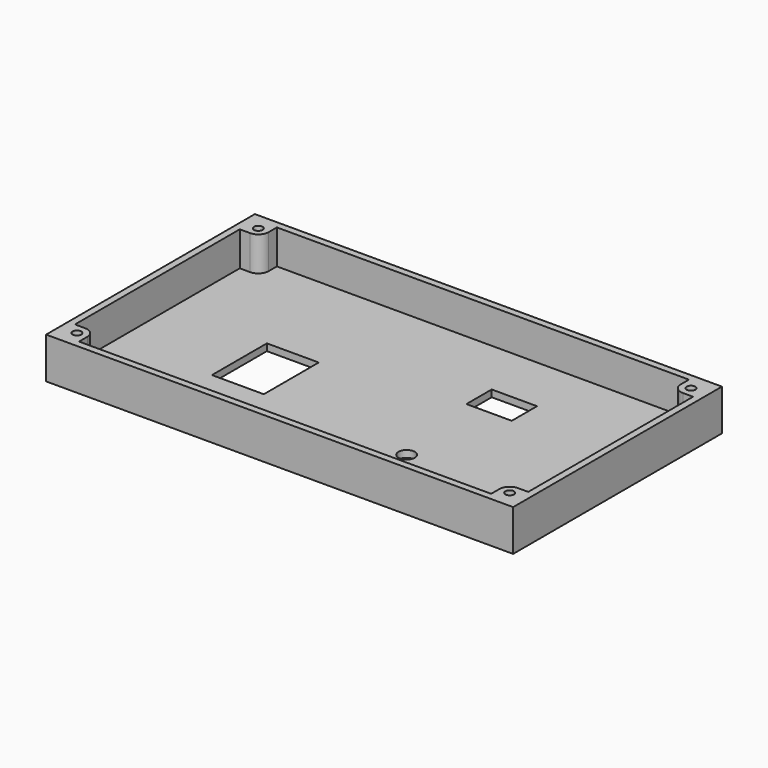
from build123d import *

# Parameters (mm, degrees)
SKETCH_W        = 136
SKETCH_H        = 76
PAD_DEPTH       = 2
SKETCH001_W     = 136
SKETCH001_H     = 76
PAD001_DEPTH    = 10
SKETCH002_R     = 1.25
POCKET_DEPTH    = 13
SKETCH003_R     = 2.375
SKETCH003_W     = 15.1
SKETCH003_H     = 20
SKETCH003_W_2   = 13.2
SKETCH003_H_2   = 9.2
POCKET001_DEPTH = 3
FILLET_R        = 3


with BuildPart() as part:
    # Sketch → Pad (new body)
    with BuildSketch(Plane.XY):
        Rectangle(SKETCH_W, SKETCH_H)
    extrude(amount=PAD_DEPTH)

    # Sketch001 (on Face6 of Pad) → Pad001 (join)
    with BuildSketch(Plane.XY.offset(2)):
        Rectangle(SKETCH001_W, SKETCH001_H)
        Polygon((-60, 36), (60, 36), (60, 30), (66, 30), (66, -30), (60, -30), (60, -36), (-60, -36), (-60, -30), (-66, -30), (-66, 30), (-60, 30), align=None, mode=Mode.SUBTRACT)
    extrude(amount=PAD001_DEPTH)

    # Sketch002 (on Face9 of Pad001) → Pocket (cut)
    with BuildSketch(Plane.XY.offset(12)):
        with Locations((-63, 33)):
            Circle(SKETCH002_R)
        with Locations((-63, -33)):
            Circle(SKETCH002_R)
        with Locations((63, 33)):
            Circle(SKETCH002_R)
        with Locations((63, -33)):
            Circle(SKETCH002_R)
    extrude(amount=-POCKET_DEPTH, mode=Mode.SUBTRACT)

    # Sketch003 (on Face4 of Pocket) → Pocket001 (cut)
    with BuildSketch(Plane(origin=(0, 0, 0), x_dir=(1, 0, 0), z_dir=(0, 0, -1))):
        with Locations((21, 18)):
            Circle(SKETCH003_R)
        with Locations((-30.55, 5)):
            Rectangle(SKETCH003_W, SKETCH003_H)
        with Locations((22.6, -14.6)):
            Rectangle(SKETCH003_W_2, SKETCH003_H_2)
    extrude(amount=-POCKET001_DEPTH, mode=Mode.SUBTRACT)

    # Fillet
    fillet_edges = [part.edges().sort_by_distance(p)[0] for p in [
        (60, 30, 7),
        (-60, 30, 7),
        (60, -30, 7),
        (-60, -30, 7),
    ]]
    fillet(fillet_edges, radius=FILLET_R)


solid = part.part
